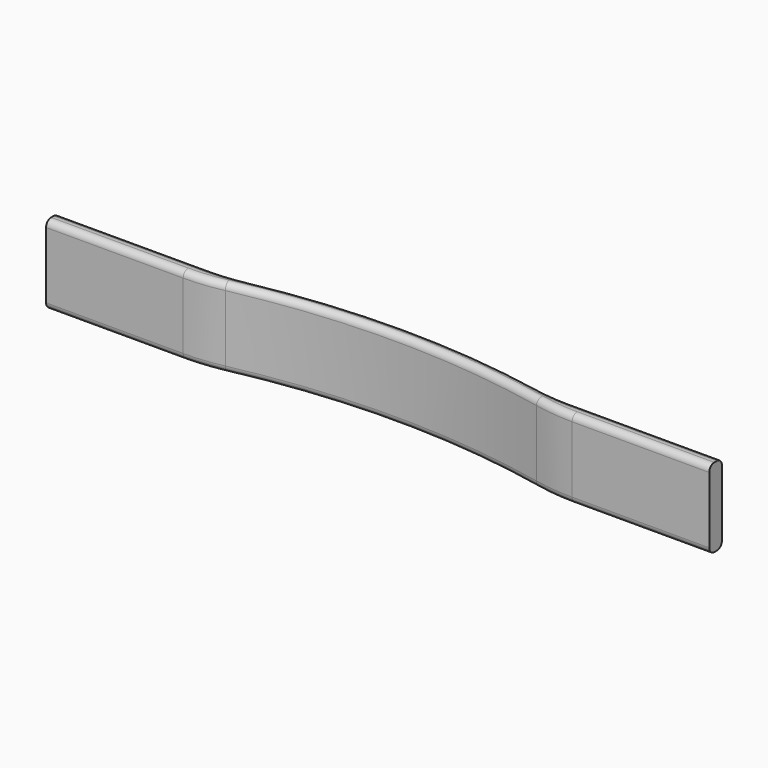
from build123d import *

# Parameters (mm, degrees)
F1_DEPTH = 63.5
F2_R     = 152.4
F3_R     = 5.08
F4_R     = 5.08


with BuildPart() as f1:
    # F0 (on Top) → F1 (new body)
    with BuildSketch(Plane.XY):
        with BuildLine():
            Line((139.7, -6.35), (266.7, -6.35))
            Line((266.7, -6.35), (266.7, 6.35))
            Line((266.7, 6.35), (145.47977, 6.35))
            ThreePointArc((145.47977, 6.35), (130.864429, 7.052433), (116.383816, 9.153257))
            ThreePointArc((116.383816, 9.153257), (0, 20.366286), (-116.383816, 9.153257))
            ThreePointArc((-116.383816, 9.153257), (-130.864429, 7.052433), (-145.47977, 6.35))
            Line((-145.47977, 6.35), (-266.7, 6.35))
            Line((-266.7, 6.35), (-266.7, -6.35))
            Line((-266.7, -6.35), (-139.7, -6.35))
            ThreePointArc((-139.7, -6.35), (0, 9.873164), (139.7, -6.35))
        make_face()
    extrude(amount=F1_DEPTH)

    # F2
    f2_edges = [f1.edges().sort_by_distance(p)[0] for p in [
        (139.7, -6.35, 31.75),
        (-139.7, -6.35, 31.75),
    ]]
    fillet(f2_edges, radius=F2_R)

    # F3
    f3_edges = [f1.edges().sort_by_distance(p)[0] for p in [
        (-211.54992, -6.35, 63.5),
        (-206.089885, 6.35, 63.5),
    ]]
    fillet(f3_edges, radius=F3_R)

    # F4
    f4_edges = [f1.edges().sort_by_distance(p)[0] for p in [
        (-206.089885, 6.35, 0),
        (-211.54992, -6.35, 0),
    ]]
    fillet(f4_edges, radius=F4_R)


solid = f1.part
